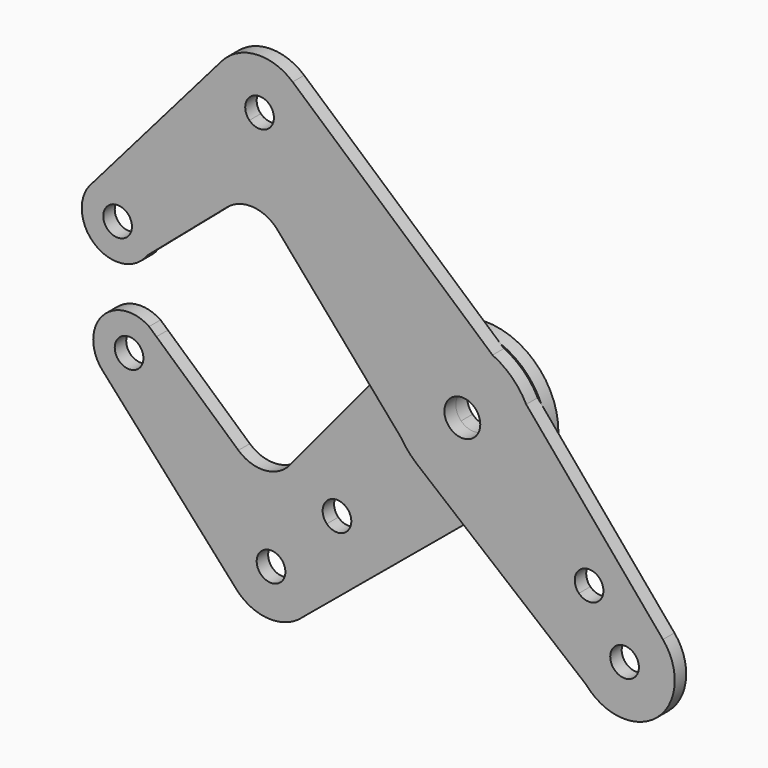
from build123d import *

# Parameters (mm, degrees)
F1_DEPTH = 3.175
F3_DEPTH = 3.175


with BuildPart() as f1:
    # F0 (on Front) → F1 (new body)
    with BuildSketch(Plane.XZ):
        with BuildLine():
            ThreePointArc((-13.4948678072, -8.3608712384), (-15.7694846608, 1.8272872063), (-11.2253201513, 11.2253201513))
            Line((-11.2253201513, 11.2253201513), (-37.0435564994, 37.0435564994))
            ThreePointArc((-37.0435564994, 37.0435564994), (-44.9012806053, 33.7887806053), (-52.7590047113, 37.0435564994))
            Line((-52.7590047113, 37.0435564994), (-70.7195169534, 19.0830442573))
            ThreePointArc((-70.7195169534, 19.0830442573), (-68.9988832398, 16.507933926), (-68.3946770291, 13.4703841816))
            ThreePointArc((-68.3946770291, 13.4703841816), (-68.7656870241, 11.0720232299), (-69.8440339436, 8.8978678555))
            Line((-69.8440339436, 8.8978678555), (-52.0741189422, 24.1225312549))
            ThreePointArc((-52.0741189422, 24.1225312549), (-46.3101415882, 26.0133414911), (-40.8904602416, 23.2883364656))
            Line((-40.8904602416, 23.2883364656), (-13.4948678072, -8.3608712384))
        make_face()
        with BuildLine():
            Line((-70.7195169534, 19.0830442573), (-52.7590047113, 37.0435564994))
            ThreePointArc((-52.7590047113, 37.0435564994), (-56.0066011093, 44.501890128), (-53.3031631019, 52.1742460778))
            Line((-53.3031631019, 52.1742460778), (-81.9696297644, 19.0581415947))
            ThreePointArc((-81.9696297644, 19.0581415947), (-76.3497470218, 21.4078647356), (-70.7195169534, 19.0830442573))
        make_face()
        with BuildLine():
            ThreePointArc((-52.7590047113, 37.0435564994), (-44.9012806053, 33.7887806053), (-37.0435564994, 37.0435564994))
            Line((-37.0435564994, 37.0435564994), (-42.6562165751, 42.6562165751))
            ThreePointArc((-42.6562165751, 42.6562165751), (-44.9012806053, 41.7262806053), (-47.1463446356, 42.6562165751))
            Line((-47.1463446356, 42.6562165751), (-52.7590047113, 37.0435564994))
        make_face()
        with BuildLine():
            Line((-37.0435564994, 37.0435564994), (-11.2253201513, 11.2253201513))
            ThreePointArc((-11.2253201513, 11.2253201513), (-2.7677824051, 15.6318586725), (6.6885940582, 14.397164114))
            Line((6.6885940582, 14.397164114), (-37.5698837561, 53.2522252519))
            ThreePointArc((-37.5698837561, 53.2522252519), (-34.7780942558, 49.4848113821), (-33.7887806053, 44.9012806053))
            ThreePointArc((-33.7887806053, 44.9012806053), (-34.6346693003, 40.6487109632), (-37.0435564994, 37.0435564994))
        make_face()
        with BuildLine():
            Line((-42.6562165751, 42.6562165751), (-37.0435564994, 37.0435564994))
            ThreePointArc((-37.0435564994, 37.0435564994), (-34.6346693003, 40.6487109632), (-33.7887806053, 44.9012806053))
            ThreePointArc((-33.7887806053, 44.9012806053), (-34.7780942558, 49.4848113821), (-37.5698837561, 53.2522252519))
            ThreePointArc((-37.5698837561, 53.2522252519), (-45.6608822478, 55.9877886938), (-53.3031631019, 52.1742460778))
            ThreePointArc((-53.3031631019, 52.1742460778), (-56.0066011093, 44.501890128), (-52.7590047113, 37.0435564994))
            Line((-52.7590047113, 37.0435564994), (-47.1463446356, 42.6562165751))
            ThreePointArc((-47.1463446356, 42.6562165751), (-46.1163005031, 47.8345981211), (-41.7262806053, 44.9012806053))
            ThreePointArc((-41.7262806053, 44.9012806053), (-41.9679630896, 43.6862607076), (-42.6562165751, 42.6562165751))
        make_face()
        with BuildLine():
            ThreePointArc((-68.3946770291, 13.4703841816), (-68.9988832398, 16.507933926), (-70.7195169534, 19.0830442573))
            ThreePointArc((-70.7195169534, 19.0830442573), (-76.3497470218, 21.4078647356), (-81.9696297644, 19.0581415947))
            ThreePointArc((-81.9696297644, 19.0581415947), (-81.4300892617, 7.3863725841), (-69.8440339436, 8.8978678555))
            ThreePointArc((-69.8440339436, 8.8978678555), (-68.7656870241, 11.0720232299), (-68.3946770291, 13.4703841816))
        make_face()
        with BuildLine():
            ThreePointArc((-73.1571770291, 13.4703841816), (-79.2654945448, 12.2553642838), (-74.0871129988, 15.7154482119))
            ThreePointArc((-74.0871129988, 15.7154482119), (-73.3988595134, 14.6854040794), (-73.1571770291, 13.4703841816))
        make_face(mode=Mode.SUBTRACT)
        with BuildLine():
            ThreePointArc((-2.8108201659, 2.8108201659), (1.521204912, 3.6725135297), (3.9751, 0))
            ThreePointArc((3.9751, 0), (3.6725135297, -1.521204912), (2.8108201659, -2.8108201659))
            Line((2.8108201659, -2.8108201659), (11.2253201513, -11.2253201513))
            ThreePointArc((11.2253201513, -11.2253201513), (14.6665875786, -6.0750994888), (15.875, 0))
            ThreePointArc((15.875, 0), (15.4354295053, 3.7098707505), (14.1410609782, 7.2142927173))
            ThreePointArc((14.1410609782, 7.2142927173), (11.0166711219, 11.4301610833), (6.6885940582, 14.397164114))
            ThreePointArc((6.6885940582, 14.397164114), (-2.7677824051, 15.6318586725), (-11.2253201513, 11.2253201513))
            Line((-11.2253201513, 11.2253201513), (-2.8108201659, 2.8108201659))
        make_face()
        with BuildLine():
            ThreePointArc((2.8108201659, -2.8108201659), (-2.8108201659, -2.8108201659), (-2.8108201659, 2.8108201659))
            Line((-2.8108201659, 2.8108201659), (-11.2253201513, 11.2253201513))
            ThreePointArc((-11.2253201513, 11.2253201513), (-15.7694846608, 1.8272872063), (-13.4948678072, -8.3608712384))
            ThreePointArc((-13.4948678072, -8.3608712384), (-11.9491778628, -10.4514483878), (-10.0829819903, -12.2616923458))
            ThreePointArc((-10.0829819903, -12.2616923458), (0.7712009789, -15.8562566216), (11.2253201513, -11.2253201513))
            Line((11.2253201513, -11.2253201513), (2.8108201659, -2.8108201659))
        make_face()
        with BuildLine():
            Line((25.8182363481, -25.8182363481), (11.2253201513, -11.2253201513))
            ThreePointArc((11.2253201513, -11.2253201513), (0.7712009789, -15.8562566216), (-10.0829819903, -12.2616923458))
            Line((-10.0829819903, -12.2616923458), (27.4852123563, -43.1546079663))
            ThreePointArc((27.4852123563, -43.1546079663), (24.8166684953, -35.4956607342), (28.0633003783, -28.0633003783))
            Line((28.0633003783, -28.0633003783), (25.8182363481, -25.8182363481))
        make_face()
        with BuildLine():
            ThreePointArc((15.875, 0), (14.6665875786, -6.0750994888), (11.2253201513, -11.2253201513))
            Line((11.2253201513, -11.2253201513), (25.8182363481, -25.8182363481))
            Line((25.8182363481, -25.8182363481), (28.0633003783, -28.0633003783))
            ThreePointArc((28.0633003783, -28.0633003783), (36.3974750277, -24.8187431363), (44.4230423823, -28.7653730177))
            Line((44.4230423823, -28.7653730177), (14.1410609782, 7.2142927173))
            ThreePointArc((14.1410609782, 7.2142927173), (15.4354295053, 3.7098707505), (15.875, 0))
        make_face()
        with BuildLine():
            ThreePointArc((31.2383003783, -23.5731723178), (29.2783202761, -26.5064898335), (25.8182363481, -25.8182363481))
            ThreePointArc((25.8182363481, -25.8182363481), (26.8482804806, -20.6398548021), (31.2383003783, -23.5731723178))
        make_face(mode=Mode.SUBTRACT)
        with BuildLine():
            ThreePointArc((28.0633003783, -28.0633003783), (24.8166684953, -35.4956607342), (27.4852123563, -43.1546079663))
            ThreePointArc((27.4852123563, -43.1546079663), (39.7774926857, -46.3428913641), (47.0335244843, -35.9210244843))
            ThreePointArc((47.0335244843, -35.9210244843), (46.3605247152, -32.1125482563), (44.4230423823, -28.7653730177))
            ThreePointArc((44.4230423823, -28.7653730177), (36.3974750277, -24.8187431363), (28.0633003783, -28.0633003783))
        make_face()
        with BuildLine():
            ThreePointArc((39.0960244843, -35.9210244843), (34.7060045865, -38.854342), (33.675960454, -33.675960454))
            ThreePointArc((33.675960454, -33.675960454), (37.136044382, -32.9877069686), (39.0960244843, -35.9210244843))
        make_face(mode=Mode.SUBTRACT)
    extrude(amount=F1_DEPTH)

    # F2 (on Front) → F3 (join)
    with BuildSketch(Plane.XZ):
        with BuildLine():
            Line((-37.8002404479, -52.3968071841), (10.3384674722, -12.4624695216))
            ThreePointArc((10.3384674722, -12.4624695216), (11.4477925566, 11.4518601908), (-12.4661415509, 10.3340394368))
            Line((-12.4661415509, 10.3340394368), (-40.7040933076, -23.7299203398))
            ThreePointArc((-40.7040933076, -23.7299203398), (-46.2342528039, -26.5843517404), (-52.126234613, -24.5806069871))
            Line((-52.126234613, -24.5806069871), (-70.2762329196, -8.3391614041))
            ThreePointArc((-70.2762329196, -8.3391614041), (-68.8798967533, -10.737725231), (-68.3946770291, -13.4703841816))
            ThreePointArc((-68.3946770291, -13.4703841816), (-68.9988832398, -16.507933926), (-70.7195169534, -19.0830442573))
            Line((-70.7195169534, -19.0830442573), (-52.2022288318, -37.6003323789))
            ThreePointArc((-52.2022288318, -37.6003323789), (-44.9012806053, -34.5761806053), (-37.6003323789, -37.6003323789))
            ThreePointArc((-37.6003323789, -37.6003323789), (-35.3621320442, -40.9500358978), (-34.5761806053, -44.9012806053))
            ThreePointArc((-34.5761806053, -44.9012806053), (-35.4163810345, -48.9810318405), (-37.8002404479, -52.3968071841))
        make_face()
        with BuildLine():
            ThreePointArc((-27.1243841525, -30.2993841525), (-29.0843642547, -33.2327016682), (-32.5444481828, -32.5444481828))
            ThreePointArc((-32.5444481828, -32.5444481828), (-32.5444481828, -28.0543201222), (-28.0543201222, -28.0543201222))
            ThreePointArc((-28.0543201222, -28.0543201222), (-27.3660666368, -29.0843642547), (-27.1243841525, -30.2993841525))
        make_face(mode=Mode.SUBTRACT)
        with BuildLine():
            ThreePointArc((3.9751, 0), (1.521204912, -3.6725135297), (-2.8108201659, -2.8108201659))
            ThreePointArc((-2.8108201659, -2.8108201659), (-1.521204912, 3.6725135297), (3.9751, 0))
        make_face(mode=Mode.SUBTRACT)
        with BuildLine():
            Line((-82.1697332902, -18.8487522564), (-52.5839556456, -51.799410369))
            ThreePointArc((-52.5839556456, -51.799410369), (-55.2226514199, -44.6238017438), (-52.2022288318, -37.6003323789))
            Line((-52.2022288318, -37.6003323789), (-70.7195169534, -19.0830442573))
            ThreePointArc((-70.7195169534, -19.0830442573), (-76.494558552, -21.4062230466), (-82.1697332902, -18.8487522564))
        make_face()
        with BuildLine():
            ThreePointArc((-52.5839556456, -51.799410369), (-45.3181685075, -55.2179610059), (-37.8002404479, -52.3968071841))
            ThreePointArc((-37.8002404479, -52.3968071841), (-35.4163810345, -48.9810318405), (-34.5761806053, -44.9012806053))
            ThreePointArc((-34.5761806053, -44.9012806053), (-35.3621320442, -40.9500358978), (-37.6003323789, -37.6003323789))
            Line((-37.6003323789, -37.6003323789), (-42.6562165751, -42.6562165751))
            ThreePointArc((-42.6562165751, -42.6562165751), (-41.9679630896, -43.6862607076), (-41.7262806053, -44.9012806053))
            ThreePointArc((-41.7262806053, -44.9012806053), (-46.1163005031, -47.8345981211), (-47.1463446356, -42.6562165751))
            Line((-47.1463446356, -42.6562165751), (-52.2022288318, -37.6003323789))
            ThreePointArc((-52.2022288318, -37.6003323789), (-55.2226514199, -44.6238017438), (-52.5839556456, -51.799410369))
        make_face()
        with BuildLine():
            ThreePointArc((-37.6003323789, -37.6003323789), (-44.9012806053, -34.5761806053), (-52.2022288318, -37.6003323789))
            Line((-52.2022288318, -37.6003323789), (-47.1463446356, -42.6562165751))
            ThreePointArc((-47.1463446356, -42.6562165751), (-44.9012806053, -41.7262806053), (-42.6562165751, -42.6562165751))
            Line((-42.6562165751, -42.6562165751), (-37.6003323789, -37.6003323789))
        make_face()
        with BuildLine():
            Line((-37.8002404479, -52.3968071841), (10.3384674722, -12.4624695216))
            ThreePointArc((10.3384674722, -12.4624695216), (11.4477925566, 11.4518601908), (-12.4661415509, 10.3340394368))
            Line((-12.4661415509, 10.3340394368), (-40.7040933076, -23.7299203398))
            ThreePointArc((-40.7040933076, -23.7299203398), (-46.2342528039, -26.5843517404), (-52.126234613, -24.5806069871))
            Line((-52.126234613, -24.5806069871), (-70.2762329196, -8.3391614041))
            ThreePointArc((-70.2762329196, -8.3391614041), (-68.8798967533, -10.737725231), (-68.3946770291, -13.4703841816))
            ThreePointArc((-68.3946770291, -13.4703841816), (-68.9988832398, -16.507933926), (-70.7195169534, -19.0830442573))
            Line((-70.7195169534, -19.0830442573), (-52.2022288318, -37.6003323789))
            ThreePointArc((-52.2022288318, -37.6003323789), (-44.9012806053, -34.5761806053), (-37.6003323789, -37.6003323789))
            ThreePointArc((-37.6003323789, -37.6003323789), (-35.3621320442, -40.9500358978), (-34.5761806053, -44.9012806053))
            ThreePointArc((-34.5761806053, -44.9012806053), (-35.4163810345, -48.9810318405), (-37.8002404479, -52.3968071841))
        make_face()
        with BuildLine():
            ThreePointArc((-27.1243841525, -30.2993841525), (-29.0843642547, -33.2327016682), (-32.5444481828, -32.5444481828))
            ThreePointArc((-32.5444481828, -32.5444481828), (-32.5444481828, -28.0543201222), (-28.0543201222, -28.0543201222))
            ThreePointArc((-28.0543201222, -28.0543201222), (-27.3660666368, -29.0843642547), (-27.1243841525, -30.2993841525))
        make_face(mode=Mode.SUBTRACT)
        with BuildLine():
            ThreePointArc((3.9751, 0), (1.521204912, -3.6725135297), (-2.8108201659, -2.8108201659))
            ThreePointArc((-2.8108201659, -2.8108201659), (-1.521204912, 3.6725135297), (3.9751, 0))
        make_face(mode=Mode.SUBTRACT)
        with BuildLine():
            Line((-82.3058785178, -18.697122818), (-82.1697332902, -18.8487522564))
            ThreePointArc((-82.1697332902, -18.8487522564), (-76.494558552, -21.4062230466), (-70.7195169534, -19.0830442573))
            ThreePointArc((-70.7195169534, -19.0830442573), (-68.9988832398, -16.507933926), (-68.3946770291, -13.4703841816))
            ThreePointArc((-68.3946770291, -13.4703841816), (-68.8798967533, -10.737725231), (-70.2762329196, -8.3391614041))
            Line((-70.2762329196, -8.3391614041), (-71.9025478223, -6.8838607177))
            ThreePointArc((-71.9025478223, -6.8838607177), (-82.2890495446, -8.2244737664), (-82.3058785178, -18.697122818))
        make_face()
        with BuildLine():
            ThreePointArc((-73.1571770291, -13.4703841816), (-73.3988595134, -14.6854040794), (-74.0871129988, -15.7154482119))
            ThreePointArc((-74.0871129988, -15.7154482119), (-79.2654945448, -12.2553642838), (-73.1571770291, -13.4703841816))
        make_face(mode=Mode.SUBTRACT)
    extrude(amount=-F3_DEPTH)


solid = f1.part
